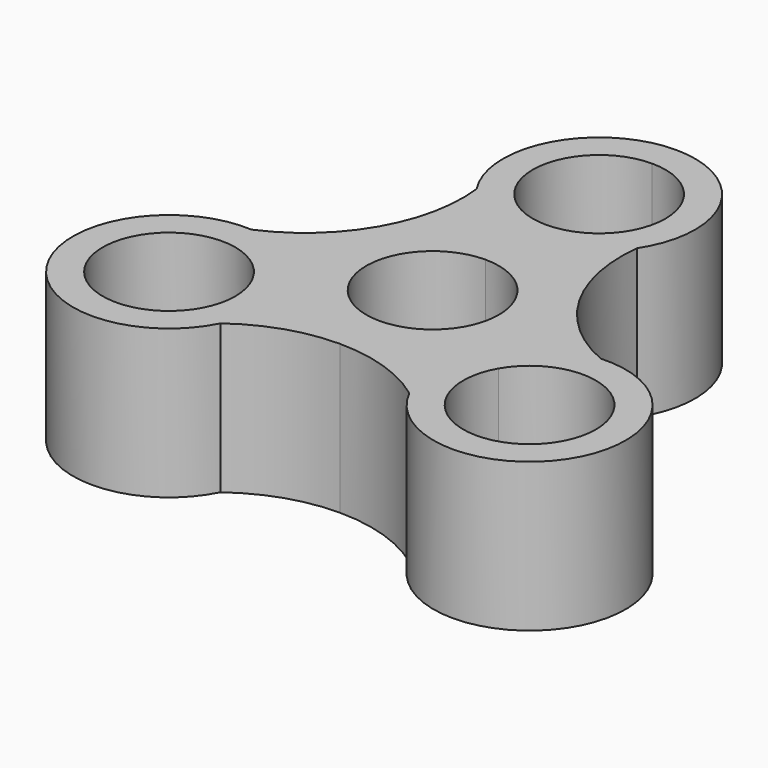
from build123d import *

# Parameters (mm, degrees)
F1_DEPTH = 7
F2_DEPTH = 25


with BuildPart() as f1:
    # F0 (on Top) → F1 (new body)
    with BuildSketch(Plane.XY):
        with BuildLine():
            ThreePointArc((41.460889, -17.5), (33.196721, -6.729927), (20.654706, -11.925))
            ThreePointArc((20.654706, -11.925), (27.425057, -28.270073), (41.460889, -17.5))
        make_face()
        with BuildLine():
            ThreePointArc((0, 11.15), (7.884241, 7.884241), (11.15, 0))
            ThreePointArc((11.15, 0), (10.770073, -2.885832), (9.656183, -5.575))
            ThreePointArc((9.656183, -5.575), (5.575, -9.656183), (0, -11.15))
            Line((0, -11.15), (0, -19.476393))
            ThreePointArc((0, -19.476393), (8.359284, -20.824585), (15.870867, -24.732445))
            ThreePointArc((15.870867, -24.732445), (44.297199, -25.575), (29.354359, -1.378351))
            ThreePointArc((29.354359, -1.378351), (16.867051, 9.738196), (13.483492, 26.110797))
            ThreePointArc((13.483492, 26.110797), (14.219408, 42.657084), (0, 51.15))
            Line((0, 51.15), (0, 46.15))
            ThreePointArc((0, 46.15), (7.884241, 42.884241), (11.15, 35))
            ThreePointArc((11.15, 35), (7.884241, 27.115759), (0, 23.85))
            Line((0, 23.85), (0, 11.15))
        make_face()
        with BuildLine():
            ThreePointArc((41.460889, -17.5), (27.425057, -28.270073), (20.654706, -11.925))
            ThreePointArc((20.654706, -11.925), (33.196721, -6.729927), (41.460889, -17.5))
        make_face(mode=Mode.SUBTRACT)
        with BuildLine():
            ThreePointArc((-19.160889, -17.5), (-19.504592, -14.752919), (-20.514513, -12.175198))
            ThreePointArc((-20.514513, -12.175198), (-41.117186, -20.247081), (-19.160889, -17.5))
        make_face()
        with BuildLine():
            ThreePointArc((-9.334502, -6.098325), (-9.80609, 5.306891), (0, 11.15))
            Line((0, 11.15), (0, 23.85))
            ThreePointArc((0, 23.85), (-11.15, 35), (0, 46.15))
            Line((0, 46.15), (0, 51.15))
            ThreePointArc((0, 51.15), (-14.219408, 42.657084), (-13.483492, 26.110797))
            ThreePointArc((-13.483492, 26.110797), (-16.867051, 9.738196), (-29.354359, -1.378351))
            ThreePointArc((-29.354359, -1.378351), (-44.297199, -25.575), (-15.870867, -24.732445))
            ThreePointArc((-15.870867, -24.732445), (-8.359284, -20.824585), (0, -19.476393))
            Line((0, -19.476393), (0, -11.15))
            ThreePointArc((0, -11.15), (-5.306891, -9.80609), (-9.334502, -6.098325))
        make_face()
        with BuildLine():
            ThreePointArc((-19.160889, -17.5), (-41.117186, -20.247081), (-20.514513, -12.175198))
            ThreePointArc((-20.514513, -12.175198), (-19.504592, -14.752919), (-19.160889, -17.5))
        make_face(mode=Mode.SUBTRACT)
    extrude(amount=F1_DEPTH)

    # F0 (on Top) → F2 (join)
    with BuildSketch(Plane.XY):
        with BuildLine():
            ThreePointArc((41.460889, -17.5), (33.196721, -6.729927), (20.654706, -11.925))
            ThreePointArc((20.654706, -11.925), (27.425057, -28.270073), (41.460889, -17.5))
        make_face()
        with BuildLine():
            ThreePointArc((0, 11.15), (7.884241, 7.884241), (11.15, 0))
            ThreePointArc((11.15, 0), (10.770073, -2.885832), (9.656183, -5.575))
            ThreePointArc((9.656183, -5.575), (5.575, -9.656183), (0, -11.15))
            Line((0, -11.15), (0, -19.476393))
            ThreePointArc((0, -19.476393), (8.359284, -20.824585), (15.870867, -24.732445))
            ThreePointArc((15.870867, -24.732445), (44.297199, -25.575), (29.354359, -1.378351))
            ThreePointArc((29.354359, -1.378351), (16.867051, 9.738196), (13.483492, 26.110797))
            ThreePointArc((13.483492, 26.110797), (14.219408, 42.657084), (0, 51.15))
            Line((0, 51.15), (0, 46.15))
            ThreePointArc((0, 46.15), (7.884241, 42.884241), (11.15, 35))
            ThreePointArc((11.15, 35), (7.884241, 27.115759), (0, 23.85))
            Line((0, 23.85), (0, 11.15))
        make_face()
        with BuildLine():
            ThreePointArc((41.460889, -17.5), (27.425057, -28.270073), (20.654706, -11.925))
            ThreePointArc((20.654706, -11.925), (33.196721, -6.729927), (41.460889, -17.5))
        make_face(mode=Mode.SUBTRACT)
        with BuildLine():
            ThreePointArc((-19.160889, -17.5), (-19.504592, -14.752919), (-20.514513, -12.175198))
            ThreePointArc((-20.514513, -12.175198), (-41.117186, -20.247081), (-19.160889, -17.5))
        make_face()
        with BuildLine():
            ThreePointArc((-9.334502, -6.098325), (-9.80609, 5.306891), (0, 11.15))
            Line((0, 11.15), (0, 23.85))
            ThreePointArc((0, 23.85), (-11.15, 35), (0, 46.15))
            Line((0, 46.15), (0, 51.15))
            ThreePointArc((0, 51.15), (-14.219408, 42.657084), (-13.483492, 26.110797))
            ThreePointArc((-13.483492, 26.110797), (-16.867051, 9.738196), (-29.354359, -1.378351))
            ThreePointArc((-29.354359, -1.378351), (-44.297199, -25.575), (-15.870867, -24.732445))
            ThreePointArc((-15.870867, -24.732445), (-8.359284, -20.824585), (0, -19.476393))
            Line((0, -19.476393), (0, -11.15))
            ThreePointArc((0, -11.15), (-5.306891, -9.80609), (-9.334502, -6.098325))
        make_face()
        with BuildLine():
            ThreePointArc((-19.160889, -17.5), (-41.117186, -20.247081), (-20.514513, -12.175198))
            ThreePointArc((-20.514513, -12.175198), (-19.504592, -14.752919), (-19.160889, -17.5))
        make_face(mode=Mode.SUBTRACT)
    extrude(amount=F2_DEPTH)


solid = f1.part
